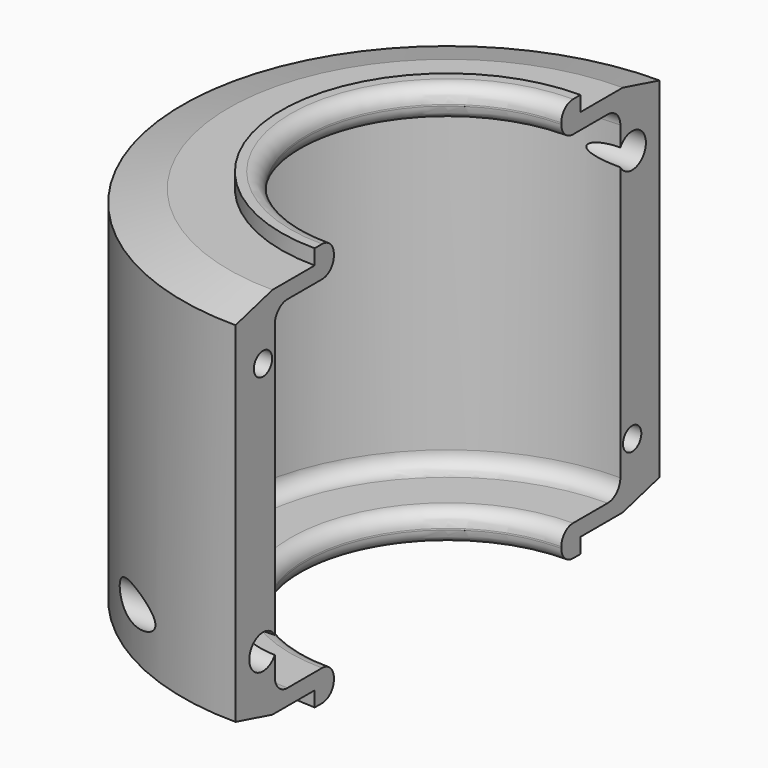
from build123d import *

# Parameters (mm, degrees)
F1_ANGLE = 180
F3_DEPTH = 27.813
F4_R     = 1.016
F5_R     = 1.0922
F7_D     = 2.3622
F8_D     = 1.5748
F8_DEPTH = 6.35
F8_TIP   = 0.4731176514
F9_SIZE2 = 3.175
F9_SIZE  = 0.850738686


with BuildPart() as f1:
    # F0 (on Right) → F1 (revolve)
    with BuildSketch(Plane.YZ):
        Polygon((0, 2.1336), (0, 0), (11.43, 0), (11.43, 1.0414), (18.2372, 1.0414), (18.2372, 26.7716), (11.43, 26.7716), (11.43, 27.813), (0, 27.813), (0, 25.6794), (14.859, 25.6794), (14.859, 2.1336), align=None)
    revolve(axis=Axis((0, 0, 26.7462), (0, 0, 1)), revolution_arc=F1_ANGLE)

    # F2 (on face) → F3 (cut)
    with BuildSketch(Plane.XY.offset(27.813)):
        with BuildLine():
            ThreePointArc((0, -9.779), (6.9147972132, -6.9147972132), (9.779, 0))
            ThreePointArc((9.779, 0), (6.9147972132, 6.9147972132), (0, 9.779))
            Line((0, 9.779), (0, -9.779))
        make_face()
        with BuildLine():
            Line((0, -9.779), (0, 9.779))
            ThreePointArc((0, 9.779), (-9.779, 0), (0, -9.779))
        make_face()
    extrude(amount=-F3_DEPTH, mode=Mode.SUBTRACT)

    # F4
    f4_edges = [f1.edges().sort_by_distance(p)[0] for p in [
        (-9.779, 0, 27.813),
        (-9.779, 0, 25.6794),
        (-9.779, 0, 2.1336),
        (-9.779, 0, 0),
    ]]
    fillet(f4_edges, radius=F4_R)

    # F5
    f5_edges = [f1.edges().sort_by_distance(p)[0] for p in [
        (-14.859, 0, 25.6794),
        (-14.859, 0, 2.1336),
    ]]
    fillet(f5_edges, radius=F5_R)

    # F7 (through all)
    with Locations(Plane.YZ):
        with Locations((15.875, 22.6314), (-15.875, 5.1816)):
            Hole(F7_D / 2)

    # F8
    with Locations(Plane.YZ):
        with Locations((15.875, 5.1816), (-15.875, 22.6314)):
            Hole(F8_D / 2, depth=F8_DEPTH)
            with Locations((0, 0, -(F8_DEPTH + F8_TIP / 2))):  # 118° drill point
                Cone(0, F8_D / 2, F8_TIP, mode=Mode.SUBTRACT)

    # F9
    f9_edges = [f1.edges().sort_by_distance(p)[0] for p in [
        (-18.2372, 0, 1.0414),
        (-18.2372, 0, 26.7716),
    ]]
    f9_side = f1.faces().sort_by_distance((-18.2372, 0, 13.9065))[0]
    chamfer(f9_edges, length=F9_SIZE, length2=F9_SIZE2, reference=f9_side)


solid = f1.part
